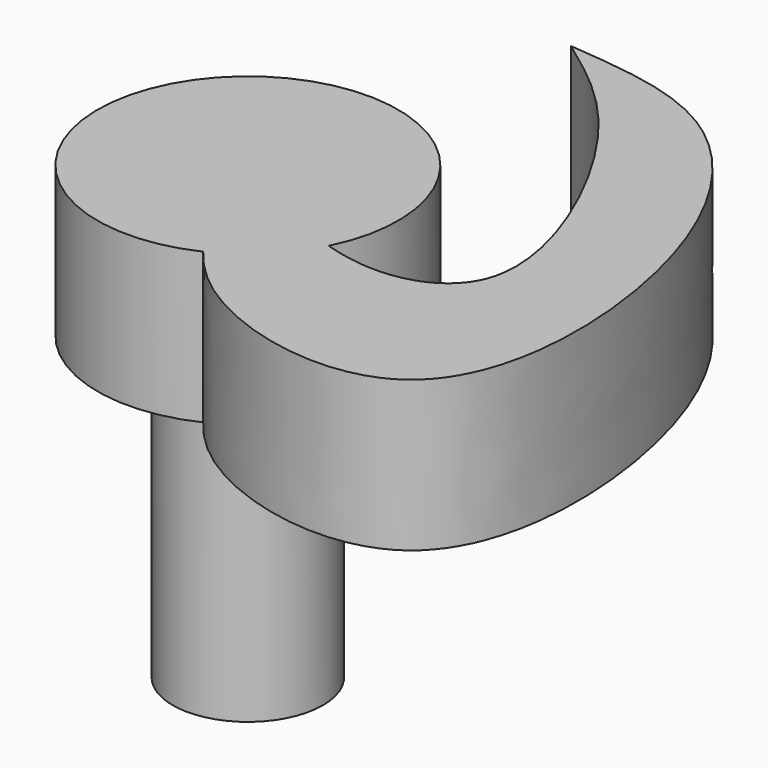
from build123d import *

# Parameters (mm, degrees)
F0_R     = 2.5
F1_DEPTH = 10
F2_R     = 5
F3_DEPTH = 5
F5_DEPTH = 5


with BuildPart() as f1:
    # F0 (on Top) → F1 (new body)
    with BuildSketch(Plane.XY):
        Circle(F0_R)
    extrude(amount=F1_DEPTH)

    # F2 (on face) → F3 (join)
    with BuildSketch(Plane.XY.offset(10)):
        Circle(F2_R)
    extrude(amount=F3_DEPTH)

    # F4 (on face) → F5 (join)
    with BuildSketch(Plane.XY.offset(15)):
        with BuildLine():
            add(Edge.make_bspline(
                [(2.3691724055, 10.4739163071), (3.6171175016, 9.5655306773), (6.4330903003, 7.5157696483), (10.4923916121, -1.3404631343), (5.5962643477, -3.2815315567), (2.0610451119, -1.2085534482), (0, 0)],
                knots=[0, 0, 0, 0, 0.2398684051, 0.5412601132, 0.7325530503, 1, 1, 1, 1], degree=3))
            add(Edge.make_bspline(
                [(0, 0), (0.7995101405, -2.2661683994), (2.4109855504, -6.8338085894), (12.9029598213, -8.9536947786), (12.7542446079, 3.0952083907), (8.1577313992, 9.9773043244), (4.1636412668, 10.3199652564), (2.3691724055, 10.4739163071)],
                knots=[0, 0, 0, 0, 0.1958907079, 0.3948330895, 0.6209051234, 0.8296798698, 1, 1, 1, 1], degree=3))
        make_face()
    extrude(amount=-F5_DEPTH)


solid = f1.part
